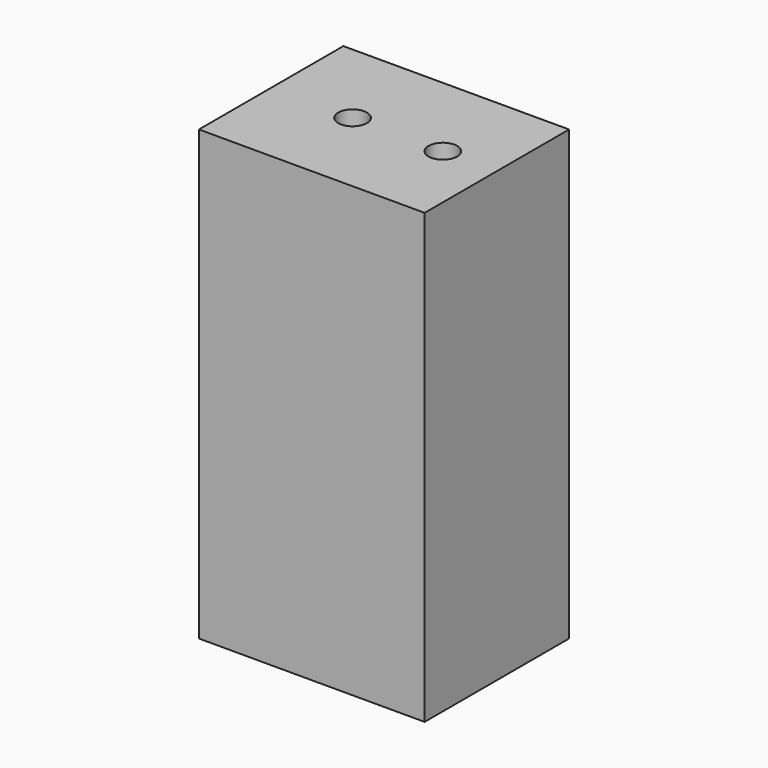
from build123d import *

# Parameters (mm, degrees)
F0_W     = 31.75
F0_H     = 63.0428
F1_DEPTH = 12.7
F3_D     = 3.4544
F3_DEPTH = 27.78125
F3_TIP   = 1.0378064612
F5_D     = 4.0386
F5_DEPTH = 27.78125
F5_TIP   = 1.213317848


with BuildPart() as f1:
    # F0 (on Front) → F1 (new body, symmetric)
    with BuildSketch(Plane.XZ):
        with Locations((-15.875, 31.5214)):
            Rectangle(F0_W, F0_H)
    extrude(amount=F1_DEPTH, both=True)

    # F3
    with Locations(Plane(origin=(0, 0, 0), x_dir=(1, 0, 0), z_dir=(0, 0, -1))):
        with Locations((-20.6375, 6.35), (-4.7625, 6.35), (-4.7625, -6.35), (-20.6375, -6.35)):
            Hole(F3_D / 2, depth=F3_DEPTH)
            with Locations((0, 0, -(F3_DEPTH + F3_TIP / 2))):  # 118° drill point
                Cone(0, F3_D / 2, F3_TIP, mode=Mode.SUBTRACT)

    # F5
    with Locations(Plane.XY.offset(63.0428)):
        with Locations((-7.5946, 0), (-20.2946, 0)):
            Hole(F5_D / 2, depth=F5_DEPTH)
            with Locations((0, 0, -(F5_DEPTH + F5_TIP / 2))):  # 118° drill point
                Cone(0, F5_D / 2, F5_TIP, mode=Mode.SUBTRACT)


solid = f1.part
